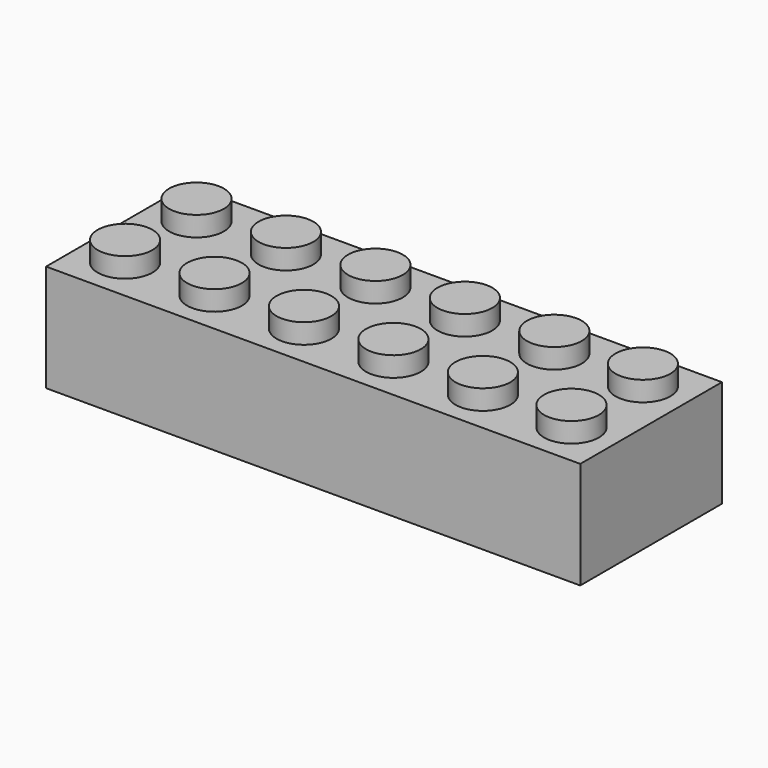
from build123d import *

# Parameters (mm, degrees)
F0_W      = 47.7774
F0_H      = 15.8369
F1_DEPTH  = 4.7879
F2_R      = 2.4511
F14_DEPTH = 1.778
F3_R      = 2.4511
F15_DEPTH = 1.778
F4_R      = 2.4511
F16_DEPTH = 1.778
F5_R      = 2.4511
F17_DEPTH = 1.778
F6_R      = 2.4511
F18_DEPTH = 1.778
F7_R      = 2.4511
F19_DEPTH = 1.778
F8_R      = 2.4511
F20_DEPTH = 1.778
F9_R      = 2.4511
F21_DEPTH = 1.778
F10_R     = 2.4511
F22_DEPTH = 1.778
F11_R     = 2.4511
F23_DEPTH = 1.778
F12_R     = 2.4511
F24_DEPTH = 1.778
F13_R     = 2.4511
F25_DEPTH = 1.778
F30_W     = 46.5582
F30_H     = 14.6304
F30_R     = 3.2385
F37_DEPTH = 8.3312
F27_R     = 3.2385
F38_DEPTH = 8.3312
F32_R     = 2.794
F39_DEPTH = 8.3312
F28_R     = 3.2385
F40_DEPTH = 8.3312
F29_R     = 3.2385
F41_DEPTH = 8.3312
F31_R     = 3.2385
F42_DEPTH = 8.3312
F33_R     = 2.794
F43_DEPTH = 8.3312
F34_R     = 2.794
F44_DEPTH = 8.3312
F35_R     = 2.794
F45_DEPTH = 8.3312
F36_R     = 2.794
F46_DEPTH = 8.3312


with BuildPart() as f1:
    # F0 (on Top) → F1 (new body, symmetric)
    with BuildSketch(Plane.XY):
        Rectangle(F0_W, F0_H)
    extrude(amount=F1_DEPTH, both=True)

    # F2 (on face) → F14 (join)
    with BuildSketch(Plane.XY.offset(4.7879)):
        with Locations((-19.9644, 3.99415)):
            Circle(F2_R)
    extrude(amount=F14_DEPTH)

    # F3 (on face) → F15 (join)
    with BuildSketch(Plane.XY.offset(4.7879)):
        with Locations((-11.9634, 3.99415)):
            Circle(F3_R)
    extrude(amount=F15_DEPTH)

    # F4 (on face) → F16 (join)
    with BuildSketch(Plane.XY.offset(4.7879)):
        with Locations((-3.9624, 3.99415)):
            Circle(F4_R)
    extrude(amount=F16_DEPTH)

    # F5 (on face) → F17 (join)
    with BuildSketch(Plane.XY.offset(4.7879)):
        with Locations((4.0386, 3.99415)):
            Circle(F5_R)
    extrude(amount=F17_DEPTH)

    # F6 (on face) → F18 (join)
    with BuildSketch(Plane.XY.offset(4.7879)):
        with Locations((12.0396, 3.99415)):
            Circle(F6_R)
    extrude(amount=F18_DEPTH)

    # F7 (on face) → F19 (join)
    with BuildSketch(Plane.XY.offset(4.7879)):
        with Locations((19.9644, 3.99415)):
            Circle(F7_R)
    extrude(amount=F19_DEPTH)

    # F8 (on face) → F20 (join)
    with BuildSketch(Plane.XY.offset(4.7879)):
        with Locations((-19.9644, -3.99415)):
            Circle(F8_R)
    extrude(amount=F20_DEPTH)

    # F9 (on face) → F21 (join)
    with BuildSketch(Plane.XY.offset(4.7879)):
        with Locations((-11.9634, -3.99415)):
            Circle(F9_R)
    extrude(amount=F21_DEPTH)

    # F10 (on face) → F22 (join)
    with BuildSketch(Plane.XY.offset(4.7879)):
        with Locations((-3.9624, -3.99415)):
            Circle(F10_R)
    extrude(amount=F22_DEPTH)

    # F11 (on face) → F23 (join)
    with BuildSketch(Plane.XY.offset(4.7879)):
        with Locations((4.0386, -3.99415)):
            Circle(F11_R)
    extrude(amount=F23_DEPTH)

    # F12 (on face) → F24 (join)
    with BuildSketch(Plane.XY.offset(4.7879)):
        with Locations((12.0396, -3.99415)):
            Circle(F12_R)
    extrude(amount=F24_DEPTH)

    # F13 (on face) → F25 (join)
    with BuildSketch(Plane.XY.offset(4.7879)):
        with Locations((19.9644, -3.99415)):
            Circle(F13_R)
    extrude(amount=F25_DEPTH)

    # F30 (on face) → F37 (cut)
    with BuildSketch(Plane(origin=(0, 0, -4.7879), x_dir=(1, 0, 0), z_dir=(0, 0, -1))):
        Rectangle(F30_W, F30_H)
        with Locations((8.1026, 0)):
            Circle(F30_R, mode=Mode.SUBTRACT)
    extrude(amount=-F37_DEPTH, mode=Mode.SUBTRACT)

    # F27 (on face) → F38 (join)
    with BuildSketch(Plane(origin=(0, 0, -4.7879), x_dir=(1, 0, 0), z_dir=(0, 0, -1))):
        with Locations((-16.51, 0)):
            Circle(F27_R)
    extrude(amount=-F38_DEPTH)

    # F32 (on face) → F39 (cut)
    with BuildSketch(Plane(origin=(0, 0, -4.7879), x_dir=(1, 0, 0), z_dir=(0, 0, -1))):
        with Locations((-16.491707, 0)):
            Circle(F32_R)
    extrude(amount=-F39_DEPTH, mode=Mode.SUBTRACT)

    # F28 (on face) → F40 (join)
    with BuildSketch(Plane(origin=(0, 0, -4.7879), x_dir=(1, 0, 0), z_dir=(0, 0, -1))):
        with Locations((-8.4074, 0)):
            Circle(F28_R)
    extrude(amount=-F40_DEPTH)

    # F29 (on face) → F41 (join)
    with BuildSketch(Plane(origin=(0, 0, -4.7879), x_dir=(1, 0, 0), z_dir=(0, 0, -1))):
        Circle(F29_R)
    extrude(amount=-F41_DEPTH)

    # F31 (on face) → F42 (join)
    with BuildSketch(Plane(origin=(0, 0, -4.7879), x_dir=(1, 0, 0), z_dir=(0, 0, -1))):
        with Locations((16.51, 0)):
            Circle(F31_R)
    extrude(amount=-F42_DEPTH)

    # F33 (on face) → F43 (cut)
    with BuildSketch(Plane(origin=(0, 0, -4.7879), x_dir=(1, 0, 0), z_dir=(0, 0, -1))):
        with Locations((-8.388528, 0)):
            Circle(F33_R)
    extrude(amount=-F43_DEPTH, mode=Mode.SUBTRACT)

    # F34 (on face) → F44 (cut)
    with BuildSketch(Plane(origin=(0, 0, -4.7879), x_dir=(1, 0, 0), z_dir=(0, 0, -1))):
        Circle(F34_R)
    extrude(amount=-F44_DEPTH, mode=Mode.SUBTRACT)

    # F35 (on face) → F45 (cut)
    with BuildSketch(Plane(origin=(0, 0, -4.7879), x_dir=(1, 0, 0), z_dir=(0, 0, -1))):
        with Locations((8.077325, 0)):
            Circle(F35_R)
    extrude(amount=-F45_DEPTH, mode=Mode.SUBTRACT)

    # F36 (on face) → F46 (cut)
    with BuildSketch(Plane(origin=(0, 0, -4.7879), x_dir=(1, 0, 0), z_dir=(0, 0, -1))):
        with Locations((16.506594, 0)):
            Circle(F36_R)
    extrude(amount=-F46_DEPTH, mode=Mode.SUBTRACT)


solid = f1.part
